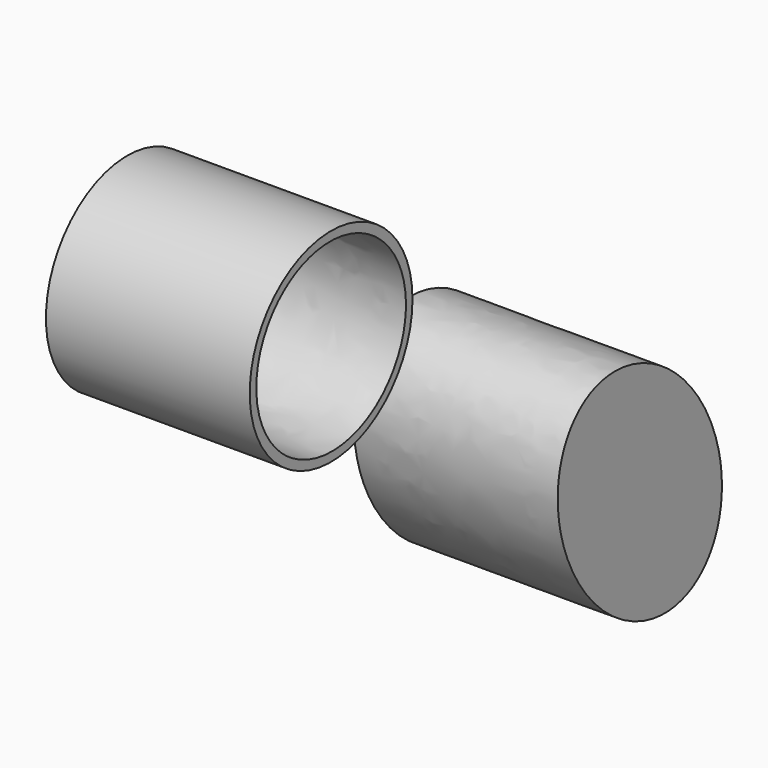
from build123d import *

# Parameters (mm, degrees)
F0_R     = 12.681802
F1_DEPTH = 25.4


with BuildPart() as f1:
    # F0 (on Right) → F1 (new body)
    with BuildSketch(Plane.YZ):
        Circle(F0_R)
        with BuildLine():
            add(Edge.make_bspline(
                [(-6.171347, -9.738332), (10.957508, -20.59318), (11.650101, -0.558258), (12.342694, 19.476664), (-5.478754, 10.29659), (-23.300202, 1.116516), (-6.171347, -9.738332)],
                knots=[4.712389, 4.712389, 4.712389, 6.806784, 6.806784, 8.901179, 8.901179, 10.995574, 10.995574, 10.995574], degree=2, weights=[1, 0.5, 1, 0.5, 1, 0.5, 1]))
        make_face(mode=Mode.SUBTRACT)
        with BuildLine():
            add(Edge.make_bspline(
                [(56.520568, -49.172419), (73.200022, -38.857077), (52.232486, -23.596137), (31.26495, -8.335198), (35.553032, -33.91148), (39.841115, -59.487761), (56.520568, -49.172419)],
                knots=[0, 0, 0, 2.094395, 2.094395, 4.18879, 4.18879, 6.283185, 6.283185, 6.283185], degree=2, weights=[1, 0.5, 1, 0.5, 1, 0.5, 1]))
        make_face()
    extrude(amount=F1_DEPTH)


solid = f1.part
